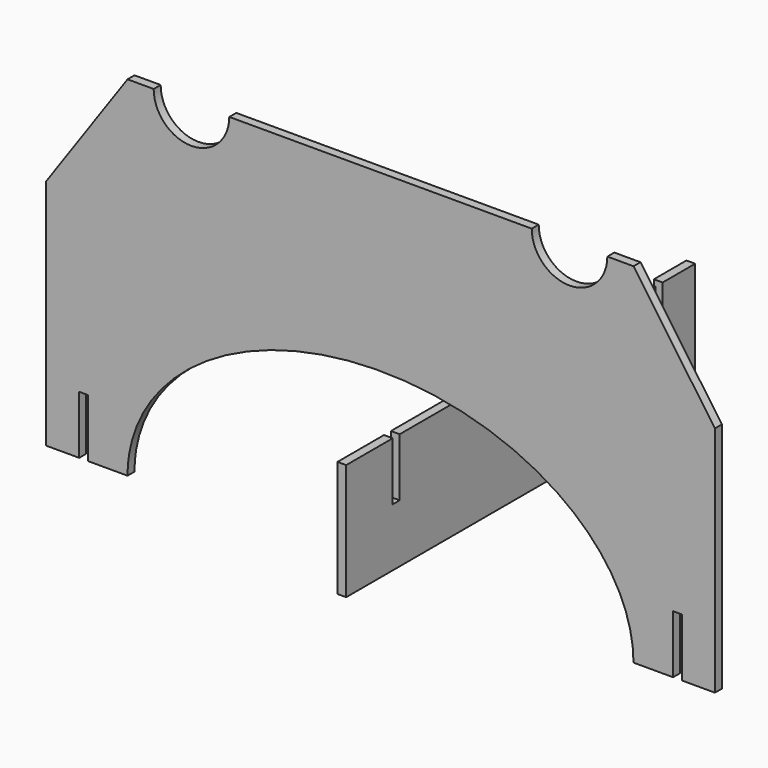
from build123d import *

# Parameters (mm, degrees)
F1_DEPTH = 3
F3_DEPTH = 3


with BuildPart() as f1:
    # F0 (on Front) → F1 (new body)
    with BuildSketch(Plane.XZ):
        with BuildLine():
            Line((87, 60), (78, 60))
            ThreePointArc((78, 60), (65, 47), (52, 60))
            Line((52, 60), (-52, 60))
            ThreePointArc((-52, 60), (-65, 47), (-78, 60))
            Line((-78, 60), (-87, 60))
            Line((-87, 60), (-115, 20))
            Line((-115, 20), (-115, -60))
            Line((-115, -60), (-103.615403, -60))
            Line((-103.615403, -60), (-103.615403, -40))
            Line((-103.615403, -40), (-100.615403, -40))
            Line((-100.615403, -40), (-100.615403, -60))
            Line((-100.615403, -60), (-87, -60))
            add(Edge.make_bspline(
                [(87, -60), (87, 0), (0, 0), (-87, 0), (-87, -60)],
                knots=[0, 0, 0, 1.570796, 1.570796, 3.141593, 3.141593, 3.141593], degree=2, weights=[1, 0.707107, 1, 0.707107, 1]))
            Line((87, -60), (100.615403, -60))
            Line((100.615403, -60), (100.615403, -40))
            Line((100.615403, -40), (103.615403, -40))
            Line((103.615403, -40), (103.615403, -60))
            Line((103.615403, -60), (115, -60))
            Line((115, -60), (115, 20))
            Line((115, 20), (87, 60))
        make_face()
    extrude(amount=F1_DEPTH)


with BuildPart() as f3:
    # F2 (on Right) → F3 (new body)
    with BuildSketch(Plane.YZ):
        Polygon((1.5, -40), (1.5, -60), (111.5, -60), (111.5, -40), (111.5, -20), (1.5, -20), align=None)
        Polygon((-21.5, -20), (-21.5, -60), (-1.5, -60), (-1.5, -40), (-1.5, -20), align=None)
        Polygon((-1.5, -40), (-1.5, -60), (1.5, -60), (1.5, -40), (0, -40), align=None)
        Polygon((111.5, -40), (111.5, -60), (114.5, -60), (114.5, -40), (113, -40), align=None)
        Polygon((114.5, -40), (114.5, -60), (128.5, -60), (128.5, -20), (114.5, -20), align=None)
    extrude(amount=F3_DEPTH)


solid = Compound([f1.part, f3.part])
